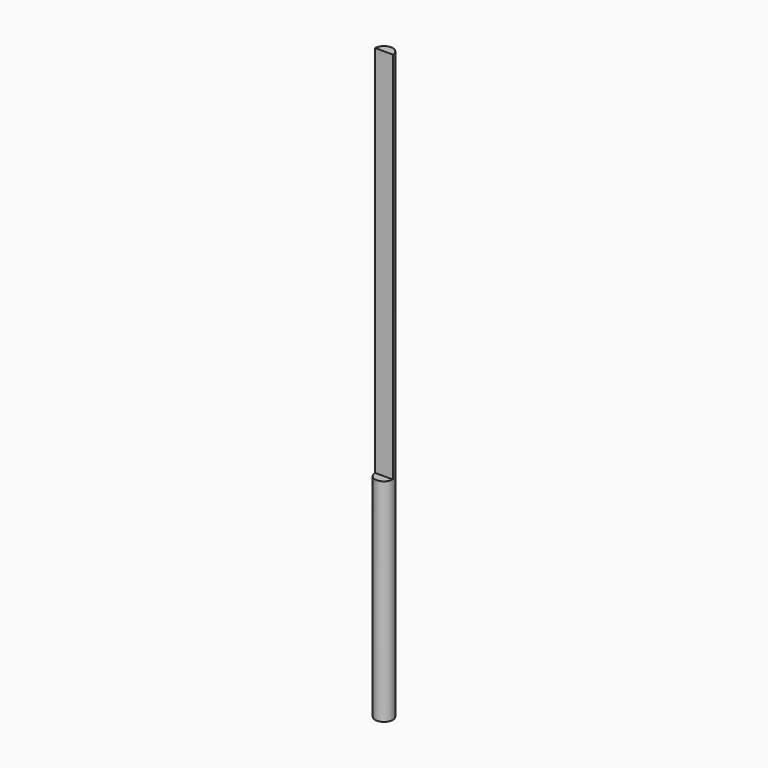
from build123d import *

# Parameters (mm, degrees)
F1_DEPTH = 600
F2_DEPTH = 1060


with BuildPart() as f1:
    # F0 (on Top) → F1 (new body)
    with BuildSketch(Plane.XY):
        with BuildLine():
            Line((-25, 0), (25, 0))
            ThreePointArc((25, 0), (0, 25), (-25, 0))
        make_face()
        with BuildLine():
            ThreePointArc((-25, 0), (0, -25), (25, 0))
            Line((25, 0), (-25, 0))
        make_face()
    extrude(amount=-F1_DEPTH)

    # F0 (on Top) → F2 (join)
    with BuildSketch(Plane.XY):
        with BuildLine():
            Line((-25, 0), (25, 0))
            ThreePointArc((25, 0), (0, 25), (-25, 0))
        make_face()
    extrude(amount=F2_DEPTH)


solid = f1.part
